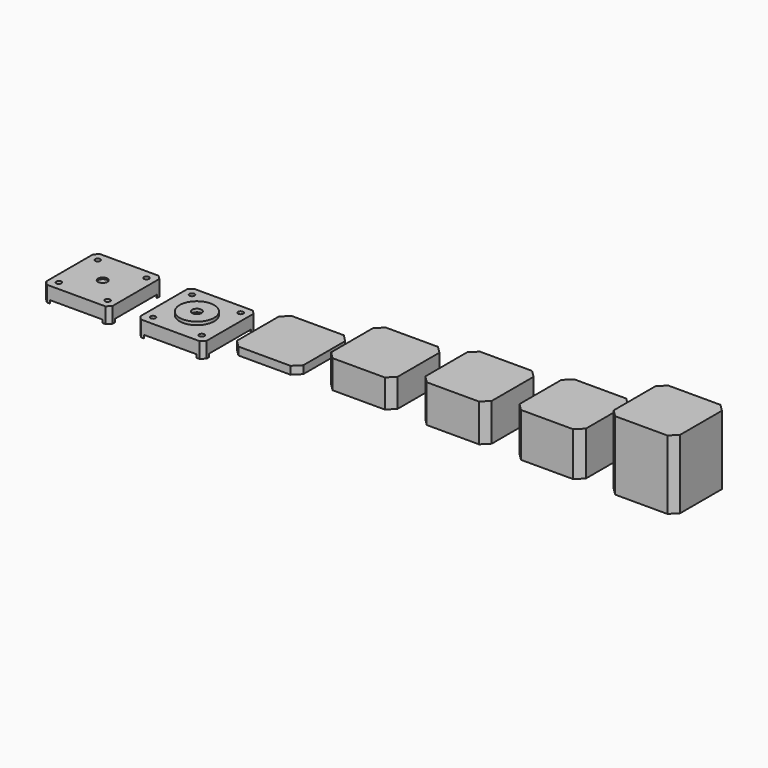
from build123d import *

# Parameters (mm, degrees)
F0_R       = 3
F1_DEPTH   = 8
F0_R_2     = 11
F2_DEPTH   = 2
F3_DEPTH   = 1
F5_DEPTH   = 2
F6_D       = 3.2639
F6_DEPTH   = 4
F6_TIP     = 0.9805744872
F6_2_D     = 3.2639
F6_2_DEPTH = 4
F6_2_TIP   = 0.9805744872
F7_DEPTH   = 5
F8_DEPTH   = 18
F9_DEPTH   = 24
F10_DEPTH  = 28
F11_DEPTH  = 44


with BuildPart() as f1:
    # F0 (on Top) → F1 (new body)
    with BuildSketch(Plane.XY):
        Polygon((-81.15, 16.65), (-81.15, -16.65), (-76.65, -21.15), (-43.35, -21.15), (-38.85, -16.65), (-38.85, 16.65), (-43.35, 21.15), (-76.65, 21.15), align=None)
        with Locations((-60, 0)):
            Circle(F0_R, mode=Mode.SUBTRACT)
        Polygon((-41.35, 21.15), (-43.35, 21.15), (-38.85, 16.65), (-38.85, 18.65), align=None)
        Polygon((-81.15, 18.65), (-81.15, 16.65), (-76.65, 21.15), (-78.65, 21.15), align=None)
        Polygon((-81.15, -16.65), (-81.15, -18.65), (-78.65, -21.15), (-76.65, -21.15), align=None)
        Polygon((-38.85, -16.65), (-43.35, -21.15), (-41.35, -21.15), (-38.85, -18.65), align=None)
        with Locations((-60, 0)):
            Circle(F0_R)
    extrude(amount=-F1_DEPTH)

    # F0 (on Top) → F3 (cut)
    with BuildSketch(Plane.XY):
        with Locations((-60, 0)):
            Circle(F0_R)
    extrude(amount=-F3_DEPTH, mode=Mode.SUBTRACT)

    # F4 (on face) → F5 (join)
    with BuildSketch(Plane(origin=(0, 0, -8), x_dir=(1, 0, 0), z_dir=(0, 0, -1))):
        Polygon((-38.85, -16.65), (-43.35, -21.15), (-41.35, -21.15), (-38.85, -18.65), align=None)
        Polygon((-78.65, -21.15), (-76.65, -21.15), (-81.15, -16.65), (-81.15, -18.65), align=None)
        Polygon((-81.15, 16.65), (-76.65, 21.15), (-78.65, 21.15), (-81.15, 18.65), align=None)
        Polygon((-38.85, 16.65), (-38.85, 18.65), (-41.35, 21.15), (-43.35, 21.15), align=None)
    extrude(amount=F5_DEPTH)

    # F6
    with Locations(Plane.XY):
        with Locations((-15.5, -15.5), (15.5, -15.5), (15.5, 15.5), (-15.5, 15.5), (-44.5, -15.5), (-44.5, 15.5), (-75.5, 15.5), (-75.5, -15.5)):
            Hole(F6_D / 2, depth=F6_DEPTH)
            with Locations((0, 0, -(F6_DEPTH + F6_TIP / 2))):  # 118° drill point
                Cone(0, F6_D / 2, F6_TIP, mode=Mode.SUBTRACT)


with BuildPart() as f1b:
    # F0 (on Top) → F1, piece 2 (new body)
    with BuildSketch(Plane.XY):
        Polygon((-16.65, -21.15), (16.65, -21.15), (21.15, -16.65), (21.15, 16.65), (16.65, 21.15), (-16.65, 21.15), (-21.15, 16.65), (-21.15, -16.65), align=None)
        Circle(F0_R_2, mode=Mode.SUBTRACT)
        Circle(F0_R_2)
        Circle(F0_R, mode=Mode.SUBTRACT)
        Polygon((-18.65, -21.15), (-16.65, -21.15), (-21.15, -16.65), (-21.15, -18.65), align=None)
        Polygon((-21.15, 18.65), (-21.15, 16.65), (-16.65, 21.15), (-18.65, 21.15), align=None)
        Polygon((16.65, 21.15), (21.15, 16.65), (21.15, 18.65), (18.65, 21.15), align=None)
        Polygon((16.65, -21.15), (18.65, -21.15), (21.15, -18.65), (21.15, -16.65), align=None)
        Circle(F0_R)
    extrude(amount=-F1_DEPTH)

    # F0 (on Top) → F2 (join)
    with BuildSketch(Plane.XY):
        Circle(F0_R_2)
        Circle(F0_R, mode=Mode.SUBTRACT)
    extrude(amount=F2_DEPTH)

    # F4 (on face) → F5, piece 2 (join)
    with BuildSketch(Plane(origin=(0, 0, -8), x_dir=(1, 0, 0), z_dir=(0, 0, -1))):
        Polygon((-18.65, -21.15), (-16.65, -21.15), (-21.15, -16.65), (-21.15, -18.65), align=None)
        Polygon((21.15, -16.65), (16.65, -21.15), (18.65, -21.15), (21.15, -18.65), align=None)
        Polygon((16.65, 21.15), (21.15, 16.65), (21.15, 18.65), (18.65, 21.15), align=None)
        Polygon((-21.15, 18.65), (-21.15, 16.65), (-16.65, 21.15), (-18.65, 21.15), align=None)
    extrude(amount=F5_DEPTH)

    # F6#2
    with Locations(Plane.XY):
        with Locations((-15.5, -15.5), (15.5, -15.5), (15.5, 15.5), (-15.5, 15.5), (-44.5, -15.5), (-44.5, 15.5), (-75.5, 15.5), (-75.5, -15.5)):
            Hole(F6_2_D / 2, depth=F6_2_DEPTH)
            with Locations((0, 0, -(F6_2_DEPTH + F6_2_TIP / 2))):  # 118° drill point
                Cone(0, F6_2_D / 2, F6_2_TIP, mode=Mode.SUBTRACT)


with BuildPart() as f7:
    # F0 (on Top) → F7 (new body)
    with BuildSketch(Plane.XY):
        Polygon((43.35, -21.15), (76.65, -21.15), (81.15, -16.65), (81.15, 16.65), (76.65, 21.15), (43.35, 21.15), (38.85, 16.65), (38.85, -16.65), align=None)
    extrude(amount=F7_DEPTH)


with BuildPart() as f8:
    # F0 (on Top) → F8 (new body)
    with BuildSketch(Plane.XY):
        Polygon((103.35, -21.15), (136.65, -21.15), (141.15, -16.65), (141.15, 16.65), (136.65, 21.15), (103.35, 21.15), (98.85, 16.65), (98.85, -16.65), align=None)
    extrude(amount=F8_DEPTH)


with BuildPart() as f9:
    # F0 (on Top) → F9 (new body)
    with BuildSketch(Plane.XY):
        Polygon((163.35, -21.15), (196.65, -21.15), (201.15, -16.65), (201.15, 16.65), (196.65, 21.15), (163.35, 21.15), (158.85, 16.65), (158.85, -16.65), align=None)
    extrude(amount=F9_DEPTH)


with BuildPart() as f10:
    # F0 (on Top) → F10 (new body)
    with BuildSketch(Plane.XY):
        Polygon((223.35, -21.15), (256.65, -21.15), (261.15, -16.65), (261.15, 16.65), (256.65, 21.15), (223.35, 21.15), (218.85, 16.65), (218.85, -16.65), align=None)
    extrude(amount=F10_DEPTH)


with BuildPart() as f11:
    # F0 (on Top) → F11 (new body)
    with BuildSketch(Plane.XY):
        Polygon((283.35, -21.15), (316.65, -21.15), (321.15, -16.65), (321.15, 16.65), (316.65, 21.15), (283.35, 21.15), (278.85, 16.65), (278.85, -16.65), align=None)
    extrude(amount=F11_DEPTH)


solid = Compound([f1.part, f1b.part, f7.part, f8.part, f9.part, f10.part, f11.part])
